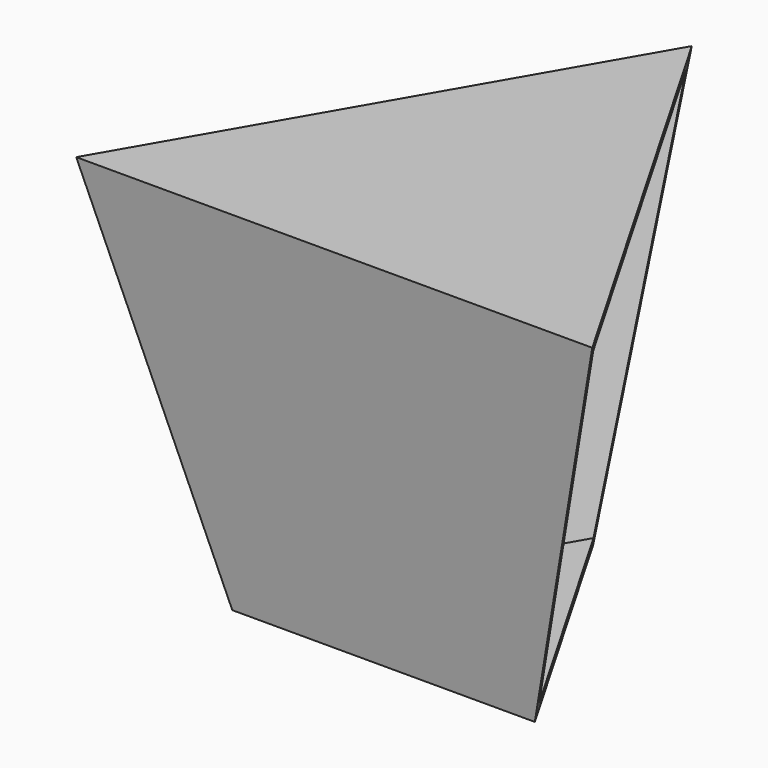
from build123d import *

# Parameters (mm, degrees)
F1_DEPTH = 84.64962
F1_TAPER = -9
F2_T     = -2.54


with BuildPart() as f1:
    # F0 (on Top) → F1 (new body)
    with BuildSketch(Plane.XY):
        Polygon((32.902453822, -18.9962405711), (0, 37.9924811423), (-32.902453822, -18.9962405711), align=None)
    extrude(amount=F1_DEPTH, taper=F1_TAPER)

    # F2
    f2_openings = [f1.faces().sort_by_distance(p)[0] for p in [
        (22.761478, 13.141345, 46.004837),
    ]]
    offset(amount=F2_T, openings=f2_openings)


solid = f1.part
